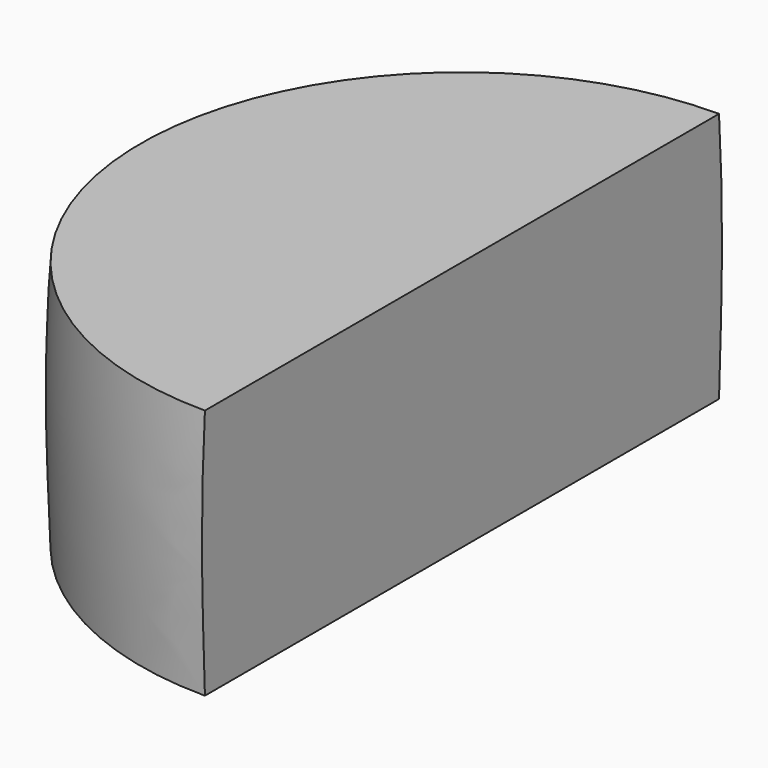
from build123d import *

# Parameters (mm, degrees)
F1_ANGLE = 180


with BuildPart() as f1:
    # F0 (on Right) → F1 (revolve)
    with BuildSketch(Plane.YZ):
        with BuildLine():
            Line((-36.2428985536, 12.9468766972), (-36.2428985536, -36.4218764007))
            Line((-36.2428985536, -36.4218764007), (26.9448366016, -36.4218764007))
            add(Edge.make_bspline(
                [(26.9448366016, 12.9468766972), (28.1798127517, -5.6220302993), (27.5623246767, -21.02195335), (26.9448366016, -36.4218764007)],
                knots=[0.7091948663, 0.7091948663, 0.7091948663, 0.7091948663, 1, 1, 1, 1], degree=3))
            Line((26.9448366016, 12.9468766972), (-36.2428985536, 12.9468766972))
        make_face()
    revolve(axis=Axis((0, -36.2428985536, 52.3276571184), (0, 0, 1)), revolution_arc=F1_ANGLE)


solid = f1.part
